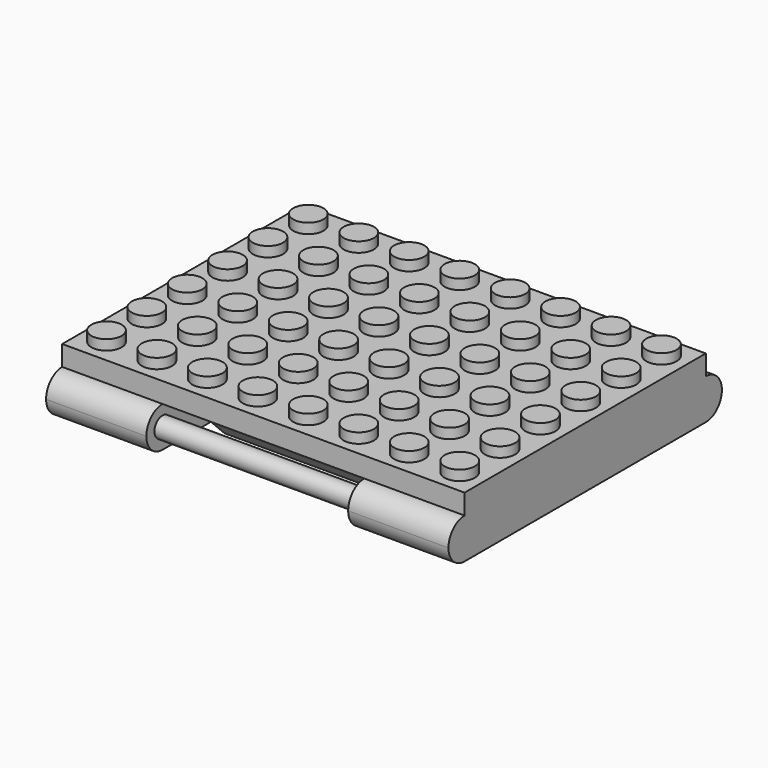
from build123d import *

# Parameters (mm, degrees)
F0_W     = 63.8
F0_H     = 47.8
F1_DEPTH = 3.2
F2_R     = 2.4
F3_DEPTH = 1.6
F6_DEPTH = 15.9
F8_R     = 1.6
F9_DEPTH = 32


with BuildPart() as f1:
    # F0 (on Top) → F1 (new body)
    with BuildSketch(Plane.XY):
        Rectangle(F0_W, F0_H)
    extrude(amount=F1_DEPTH)

    # F2 (on face) → F3 (join)
    with BuildSketch(Plane.XY.offset(3.2)):
        with Locations((-28, 20)):
            Circle(F2_R)
        with Locations((-28, 12)):
            Circle(F2_R)
        with Locations((-28, 4)):
            Circle(F2_R)
        with Locations((-28, -4)):
            Circle(F2_R)
        with Locations((-28, -12)):
            Circle(F2_R)
        with Locations((-28, -20)):
            Circle(F2_R)
        with Locations((-20, 20)):
            Circle(F2_R)
        with Locations((-20, 12)):
            Circle(F2_R)
        with Locations((-20, 4)):
            Circle(F2_R)
        with Locations((-20, -4)):
            Circle(F2_R)
        with Locations((-20, -12)):
            Circle(F2_R)
        with Locations((-20, -20)):
            Circle(F2_R)
        with Locations((-12, 20)):
            Circle(F2_R)
        with Locations((-12, 12)):
            Circle(F2_R)
        with Locations((-12, 4)):
            Circle(F2_R)
        with Locations((-12, -4)):
            Circle(F2_R)
        with Locations((-12, -12)):
            Circle(F2_R)
        with Locations((-12, -20)):
            Circle(F2_R)
        with Locations((-4, 20)):
            Circle(F2_R)
        with Locations((-4, 12)):
            Circle(F2_R)
        with Locations((-4, 4)):
            Circle(F2_R)
        with Locations((-4, -4)):
            Circle(F2_R)
        with Locations((-4, -12)):
            Circle(F2_R)
        with Locations((-4, -20)):
            Circle(F2_R)
        with Locations((4, 20)):
            Circle(F2_R)
        with Locations((4, 12)):
            Circle(F2_R)
        with Locations((4, 4)):
            Circle(F2_R)
        with Locations((4, -4)):
            Circle(F2_R)
        with Locations((4, -12)):
            Circle(F2_R)
        with Locations((4, -20)):
            Circle(F2_R)
        with Locations((12, 20)):
            Circle(F2_R)
        with Locations((12, 12)):
            Circle(F2_R)
        with Locations((12, 4)):
            Circle(F2_R)
        with Locations((12, -4)):
            Circle(F2_R)
        with Locations((12, -12)):
            Circle(F2_R)
        with Locations((12, -20)):
            Circle(F2_R)
        with Locations((20, 20)):
            Circle(F2_R)
        with Locations((20, 12)):
            Circle(F2_R)
        with Locations((20, 4)):
            Circle(F2_R)
        with Locations((20, -4)):
            Circle(F2_R)
        with Locations((20, -12)):
            Circle(F2_R)
        with Locations((20, -20)):
            Circle(F2_R)
        with Locations((28, 20)):
            Circle(F2_R)
        with Locations((28, 12)):
            Circle(F2_R)
        with Locations((28, 4)):
            Circle(F2_R)
        with Locations((28, -4)):
            Circle(F2_R)
        with Locations((28, -12)):
            Circle(F2_R)
        with Locations((28, -20)):
            Circle(F2_R)
    extrude(amount=F3_DEPTH)

    # F7: F6 across plane


with BuildPart() as f6:
    # F5 (on face) → F6 (new body, through all)
    with BuildSketch(Plane.YZ.offset(31.9)):
        with BuildLine():
            ThreePointArc((27.1, -3.2), (26.1627416998, -0.9372583002), (23.9, 0))
            Line((23.9, 0), (-23.9, 0))
            ThreePointArc((-23.9, 0), (-26.1627416998, -0.9372583002), (-27.1, -3.2))
            ThreePointArc((-27.1, -3.2), (-26.1627416998, -5.4627416998), (-23.9, -6.4))
            Line((-23.9, -6.4), (23.9, -6.4))
            ThreePointArc((23.9, -6.4), (26.1627416998, -5.4627416998), (27.1, -3.2))
        make_face()
    extrude(amount=-F6_DEPTH)


with BuildPart() as f1_1:
    add(f1.part)
    add(f6.part.mirror(Plane.YZ))


    add(f6.part)  # F9 merges F6
    # F8 (on face) → F9 (join, through all)
    with BuildSketch(Plane(origin=(16, 0, 0), x_dir=(0, -1, 0), z_dir=(-1, 0, 0))):
        with Locations((-23.9, -3.2)):
            Circle(F8_R)
        with Locations((23.9, -3.2)):
            Circle(F8_R)
        with BuildLine():
            Line((20.7, 0), (-20.7, 0))
            Line((-20.7, 0), (-11.8153602589, -8.8846397411))
            ThreePointArc((-11.8153602589, -8.8846397411), (-10.0130899865, -9.7885944374), (-8.0280111082, -9.4353606981))
            ThreePointArc((-8.0280111082, -9.4353606981), (0, -7.4), (8.0280111082, -9.4353606981))
            ThreePointArc((8.0280111082, -9.4353606981), (10.0130899865, -9.7885944374), (11.8153602589, -8.8846397411))
            Line((11.8153602589, -8.8846397411), (20.7, 0))
        make_face()
    extrude(amount=F9_DEPTH)


solid = f1_1.part
